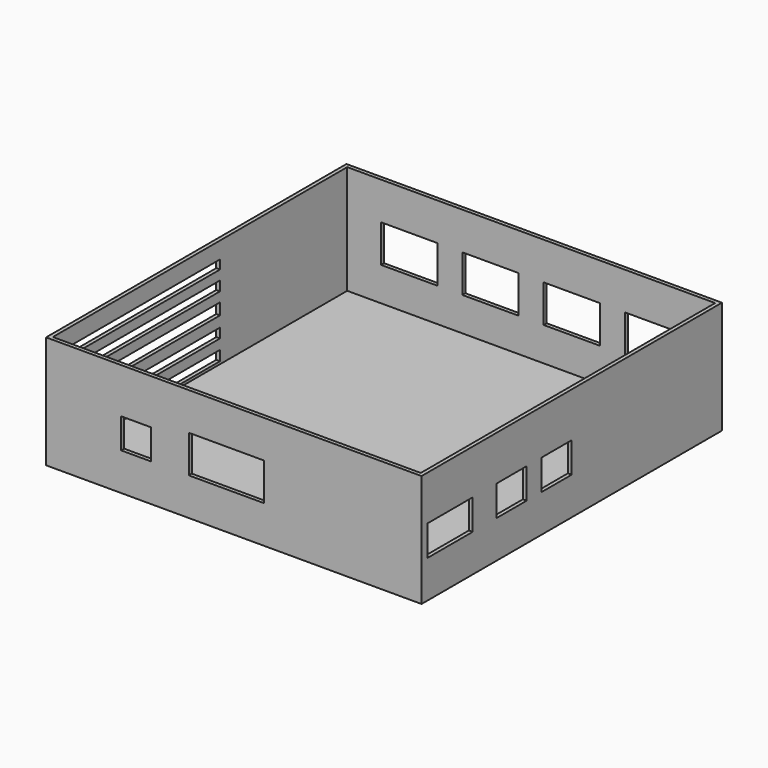
from build123d import *

# Parameters (mm, degrees)
F0_W      = 254
F0_H      = 254
F1_DEPTH  = 76.2
F2_W      = 248.92
F2_H      = 248.92
F3_DEPTH  = 73.66
F4_W      = 38.1
F4_H      = 25.4
F5_DEPTH  = 25.4
F6_W      = 38.1
F6_H      = 20.575085
F6_W_2    = 25.4
F7_DEPTH  = 25.4
F8_W      = 20.32
F8_H      = 20.32
F8_W_2    = 50.8
F8_H_2    = 25.4
F9_DEPTH  = 25.4
F10_W     = 132.736489
F10_H     = 6.033477
F10_H_2   = 6.512225
F10_H_3   = 7.788459
F10_H_4   = 6.512222
F10_H_5   = 6.788271
F11_DEPTH = 25.4


with BuildPart() as f1:
    # F0 (on Top) → F1 (new body)
    with BuildSketch(Plane.XY):
        with Locations((127, 127)):
            Rectangle(F0_W, F0_H)
    extrude(amount=F1_DEPTH)

    # F2 (on face) → F3 (cut)
    with BuildSketch(Plane.XY.offset(76.2)):
        with Locations((127, 127)):
            Rectangle(F2_W, F2_H)
    extrude(amount=-F3_DEPTH, mode=Mode.SUBTRACT)

    # F4 (on face) → F5 (cut)
    with BuildSketch(Plane(origin=(0, 254, 0), x_dir=(-1, 0, 0), z_dir=(0, 1, 0))):
        with Locations((-209.4992, 38.1)):
            Rectangle(F4_W, F4_H)
        with Locations((-154.4828, 38.1)):
            Rectangle(F4_W, F4_H)
        with Locations((-99.4664, 38.1)):
            Rectangle(F4_W, F4_H)
        with Locations((-44.45, 38.1)):
            Rectangle(F4_W, F4_H)
    extrude(amount=-F5_DEPTH, mode=Mode.SUBTRACT)

    # F6 (on face) → F7 (cut)
    with BuildSketch(Plane.YZ.offset(254)):
        with Locations((24.13, 35.687542)):
            Rectangle(F6_W, F6_H)
        with Locations((76.2, 35.687542)):
            Rectangle(F6_W_2, F6_H)
        with Locations((114.3, 35.687542)):
            Rectangle(F6_W_2, F6_H)
    extrude(amount=-F7_DEPTH, mode=Mode.SUBTRACT)

    # F8 (on face) → F9 (cut)
    with BuildSketch(Plane.XZ):
        with Locations((60.96, 35.56)):
            Rectangle(F8_W, F8_H)
        with Locations((121.92, 38.1)):
            Rectangle(F8_W_2, F8_H_2)
    extrude(amount=-F9_DEPTH, mode=Mode.SUBTRACT)

    # F10 (on face) → F11 (cut)
    with BuildSketch(Plane(origin=(0, 0, 0), x_dir=(0, -1, 0), z_dir=(-1, 0, 0))):
        with Locations((-77.526577, 61.941588)):
            Rectangle(F10_W, F10_H)
        with Locations((-77.526577, 49.178708)):
            Rectangle(F10_W, F10_H_2)
        with Locations((-77.526577, 35.516145)):
            Rectangle(F10_W, F10_H_3)
        with Locations((-77.526577, 21.126057)):
            Rectangle(F10_W, F10_H_4)
        with Locations((-77.526577, 7.713118)):
            Rectangle(F10_W, F10_H_5)
    extrude(amount=-F11_DEPTH, mode=Mode.SUBTRACT)


solid = f1.part
